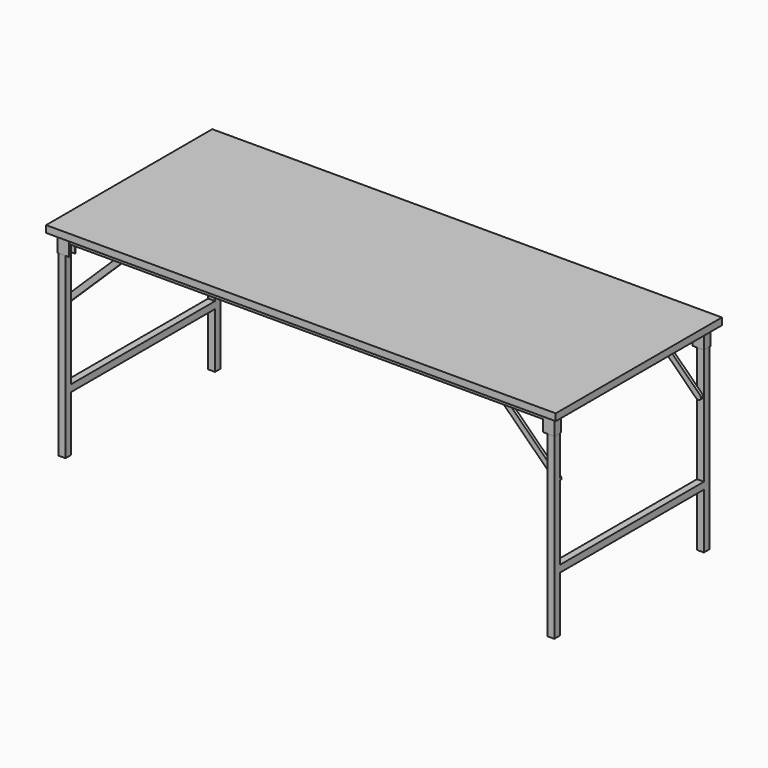
from build123d import *

# Parameters (mm, degrees)
F0_W      = 1840
F0_H      = 750
F1_DEPTH  = 25
F2_W      = 1790
F2_H      = 25
F3_DEPTH  = 25
F5_DEPTH  = 65
F7_W      = 25
F7_H      = 25
F8_DEPTH  = 675
F10_DEPTH = 65
F12_W     = 25
F12_H     = 25
F13_DEPTH = 675
F15_W     = 25
F15_H     = 25
F16_DEPTH = 675
F18_W     = 25
F18_H     = 25
F19_DEPTH = 650
F21_W     = 25
F21_H     = 25
F22_DEPTH = 650
F24_DEPTH = 10
F26_DEPTH = 10
F28_DEPTH = 10
F30_DEPTH = 10


with BuildPart() as f1:
    # F0 (on Top) → F1 (new body)
    with BuildSketch(Plane.XY):
        with Locations((-920, 375)):
            Rectangle(F0_W, F0_H)
    extrude(amount=F1_DEPTH)

    # F2 (on face) → F3 (join)
    with BuildSketch(Plane(origin=(0, 0, 0), x_dir=(1, 0, 0), z_dir=(0, 0, -1))):
        with Locations((-920, -37.5)):
            Rectangle(F2_W, F2_H)
        with Locations((-920, -712.5)):
            Rectangle(F2_W, F2_H)
    extrude(amount=F3_DEPTH)

    # F4 (on face) → F5 (join)
    with BuildSketch(Plane(origin=(0, 0, 0), x_dir=(1, 0, 0), z_dir=(0, 0, -1))):
        Polygon((-65, -25), (-25, -25), (-25, -50), (-65, -50), (-65, -52), (-23, -52), (-23, -23), (-65, -23), align=None)
    extrude(amount=F5_DEPTH)

    # F7 (on offset) → F8 (join)
    with BuildSketch(Plane(origin=(0, 0, -35), x_dir=(1, 0, 0), z_dir=(0, 0, -1))):
        with Locations((-37.5, -37.523640207)):
            Rectangle(F7_W, F7_H)
    extrude(amount=F8_DEPTH)

    # F9 (on face) → F10 (join)
    with BuildSketch(Plane.XY):
        Polygon((-1815, 725), (-1775, 725), (-1775, 727), (-1817, 727), (-1817, 698), (-1775, 698), (-1775, 700), (-1815, 700), align=None)
        Polygon((-65.0490959734, 726.9829173088), (-65.0490959734, 724.9829173088), (-25.0490959734, 724.9829173088), (-25.0490959734, 699.9829173088), (-65.0490959734, 699.9829173088), (-65.0490959734, 697.9829173088), (-23.0490959734, 697.9829173088), (-23.0490959734, 726.9829173088), align=None)
        Polygon((-1775, 25), (-1815, 25), (-1815, 50), (-1775, 50), (-1775, 52), (-1817, 52), (-1817, 23), (-1775, 23), align=None)
    extrude(amount=-F10_DEPTH)

    # F12 (on offset) → F13 (join)
    with BuildSketch(Plane(origin=(0, 0, -35), x_dir=(1, 0, 0), z_dir=(0, 0, -1))):
        with Locations((-1802.5, -37.5)):
            Rectangle(F12_W, F12_H)
    extrude(amount=F13_DEPTH)

    # F15 (on offset) → F16 (join)
    with BuildSketch(Plane(origin=(0, 0, -35), x_dir=(1, 0, 0), z_dir=(0, 0, -1))):
        with Locations((-37.5, -712.5)):
            Rectangle(F15_W, F15_H)
        with Locations((-1802.5, -712.5)):
            Rectangle(F15_W, F15_H)
    extrude(amount=F16_DEPTH)

    # F18 (on offset) → F19 (join)
    with BuildSketch(Plane(origin=(0, 50.023640207, 0), x_dir=(-1, 0, 0), z_dir=(0, 1, 0))):
        with Locations((37.5, -497.5)):
            Rectangle(F18_W, F18_H)
    extrude(amount=F19_DEPTH)

    # F21 (on offset) → F22 (join)
    with BuildSketch(Plane(origin=(0, 50, 0), x_dir=(-1, 0, 0), z_dir=(0, 1, 0))):
        with Locations((1802.5, -497.5)):
            Rectangle(F21_W, F21_H)
    extrude(amount=F22_DEPTH)

    # F23 (on face) → F24 (join)
    with BuildSketch(Plane.XZ.offset(-700)):
        with BuildLine():
            Line((-50, -188.7835379987), (-236.028425198, -5.3788918093))
            ThreePointArc((-236.028425198, -5.3788918093), (-249.6380961216, -4.9776946987), (-251.0328083047, -18.5216557034))
            Line((-251.0328083047, -18.5216557034), (-50, -216.7190604298))
            Line((-50, -216.7190604298), (-50, -188.7835379987))
        make_face()
        with BuildLine():
            Line((-29.5162876687, -208.9783442966), (-50, -188.7835379987))
            Line((-50, -188.7835379987), (-50, -216.7190604298))
            Line((-50, -216.7190604298), (-44.5206707754, -222.1211081907))
            ThreePointArc((-44.5206707754, -222.1211081907), (-30.9109998517, -222.5223053013), (-29.5162876687, -208.9783442966))
        make_face()
    extrude(amount=F24_DEPTH)

    # F25 (on face) → F26 (join)
    with BuildSketch(Plane(origin=(0, 50.023640207, 0), x_dir=(-1, 0, 0), z_dir=(0, 1, 0))):
        with BuildLine():
            Line((50, -188.6229664357), (50, -216.7160920101))
            Line((50, -216.7160920101), (250.9788283543, -18.4630064225))
            ThreePointArc((250.9788283543, -18.4630064225), (251.07538107, -4.3212004002), (236.9335750477, -4.2246476845))
            Line((236.9335750477, -4.2246476845), (50, -188.6229664357))
        make_face()
        with BuildLine():
            ThreePointArc((30.4773733467, -207.880820631), (30.380820631, -222.0226266533), (44.5226266533, -222.119179369))
            Line((44.5226266533, -222.119179369), (50, -216.7160920101))
            Line((50, -216.7160920101), (50, -188.6229664357))
            Line((50, -188.6229664357), (30.4773733467, -207.880820631))
        make_face()
    extrude(amount=F26_DEPTH)

    # F27 (on face) → F28 (join)
    with BuildSketch(Plane(origin=(0, 50, 0), x_dir=(-1, 0, 0), z_dir=(0, 1, 0))):
        with BuildLine():
            ThreePointArc((1792.287088182, -222.1476128693), (1806.4283860793, -221.993685028), (1806.274458238, -207.8523871307))
            Line((1806.274458238, -207.8523871307), (1790, -191.9284084544))
            Line((1790, -191.9284084544), (1790, -219.9097784106))
            Line((1790, -219.9097784106), (1792.287088182, -222.1476128693))
        make_face()
        with BuildLine():
            Line((1790, -219.9097784106), (1790, -191.9284084544))
            Line((1790, -191.9284084544), (1598.993685028, -5.0355213195))
            ThreePointArc((1598.993685028, -5.0355213195), (1584.8523871307, -5.1894491609), (1585.006314972, -19.3307470582))
            Line((1585.006314972, -19.3307470582), (1790, -219.9097784106))
        make_face()
    extrude(amount=F28_DEPTH)

    # F29 (on face) → F30 (join)
    with BuildSketch(Plane.XZ.offset(-700)):
        with BuildLine():
            Line((-1599.022452861, -5.0670719967), (-1790, -191.924401237))
            Line((-1790, -191.924401237), (-1790, -219.9052243348))
            Line((-1790, -219.9052243348), (-1585.0408926577, -19.3679780711))
            ThreePointArc((-1585.0408926577, -19.3679780711), (-1584.8839824349, -5.2294459524), (-1599.022452861, -5.0670719967))
        make_face()
        with BuildLine():
            Line((-1790, -191.924401237), (-1806.3072462202, -207.8798290955))
            ThreePointArc((-1806.3072462202, -207.8798290955), (-1806.4641564431, -222.0183612143), (-1792.325686017, -222.1807351699))
            Line((-1792.325686017, -222.1807351699), (-1790, -219.9052243348))
            Line((-1790, -219.9052243348), (-1790, -191.924401237))
        make_face()
    extrude(amount=F30_DEPTH)


solid = f1.part
